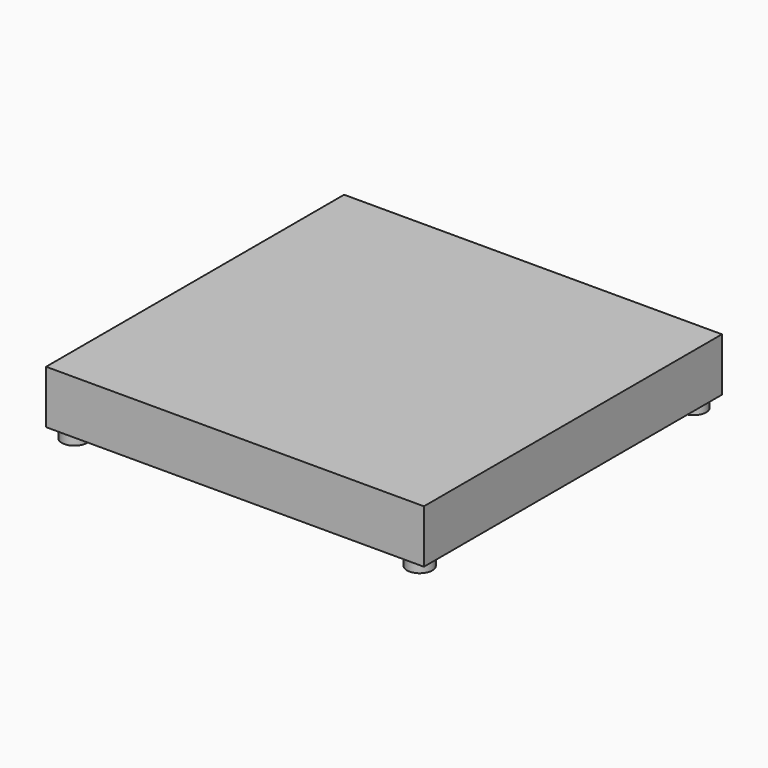
from build123d import *

# Parameters (mm, degrees)
F0_W     = 71
F0_H     = 70
F1_DEPTH = 10
F2_T     = -5
F3_R     = 2.36344
F4_R     = 2.36344
F7_DEPTH = 2
F5_R     = 2.36344
F6_R     = 2.36344
F8_DEPTH = 2


with BuildPart() as f1:
    # F0 (on Top) → F1 (new body)
    with BuildSketch(Plane.XY):
        Rectangle(F0_W, F0_H)
    extrude(amount=F1_DEPTH)

    # F2
    f2_openings = [f1.faces().sort_by_distance(p)[0] for p in [
        (0, 0, 0),
    ]]
    offset(amount=F2_T, openings=f2_openings)

    # F3 (on face) + F4 (on Top) → F7 (join)
    with BuildSketch(Plane(origin=(0, 0, 0), x_dir=(1, 0, 0), z_dir=(0, 0, -1))):
        with Locations((-32.44344, 32.1634384014)):
            Circle(F3_R)
    with BuildSketch(Plane.XY):
        with Locations((32.44344, -32.1634384014)):
            Circle(F4_R)
    extrude(amount=F7_DEPTH, dir=(0, 0, -1))

    # F5 (on face) + F6 (on face) → F8 (join)
    with BuildSketch(Plane(origin=(0, 0, 0), x_dir=(1, 0, 0), z_dir=(0, 0, -1))):
        with Locations((-32.44344, -32.1634384014)):
            Circle(F5_R)
    with BuildSketch(Plane(origin=(0, 0, 0), x_dir=(1, 0, 0), z_dir=(0, 0, -1))):
        with Locations((32.44344, -32.1634384014)):
            Circle(F6_R)
    extrude(amount=F8_DEPTH)


solid = f1.part
